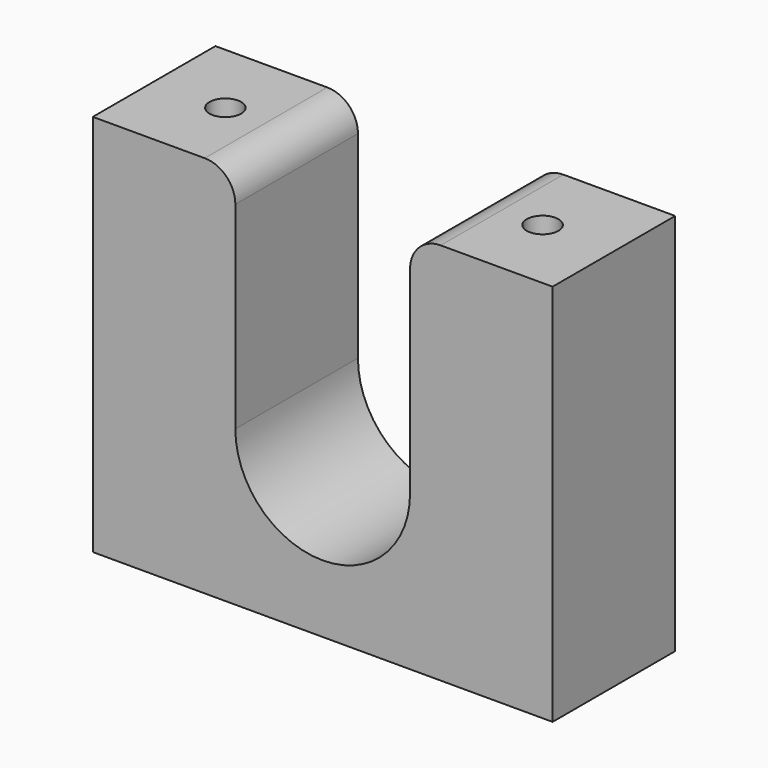
from build123d import *

# Parameters (mm, degrees)
F1_DEPTH   = 25.4
F4_D       = 5.25
F4_ON_F3_D = 5.25
F5_R       = 5.08


with BuildPart() as f1:
    # F0 (on Front) → F1 (new body)
    with BuildSketch(Plane.XZ):
        with BuildLine():
            Line((0, 63.5), (0, 0))
            Line((0, 0), (76.2, 0))
            Line((76.2, 0), (76.2, 63.5))
            Line((76.2, 63.5), (52.578, 63.5))
            Line((52.578, 63.5), (52.578, 25.654))
            ThreePointArc((52.578, 25.654), (38.1, 11.176), (23.622, 25.654))
            Line((23.622, 25.654), (23.622, 63.5))
            Line((23.622, 63.5), (0, 63.5))
        make_face()
    extrude(amount=F1_DEPTH)

    # F4 (through all)
    with Locations(Plane.XY.offset(63.5)):
        with Locations((11.811, -12.7)):
            Hole(F4_D / 2)

    # F4 on F3 (through all)
    with Locations(Plane.XY.offset(63.5)):
        with Locations((64.389, -12.7)):
            Hole(F4_ON_F3_D / 2)

    # F5
    f5_edges = [f1.edges().sort_by_distance(p)[0] for p in [
        (23.622, -12.7, 63.5),
        (52.578, -12.7, 63.5),
    ]]
    fillet(f5_edges, radius=F5_R)


solid = f1.part
